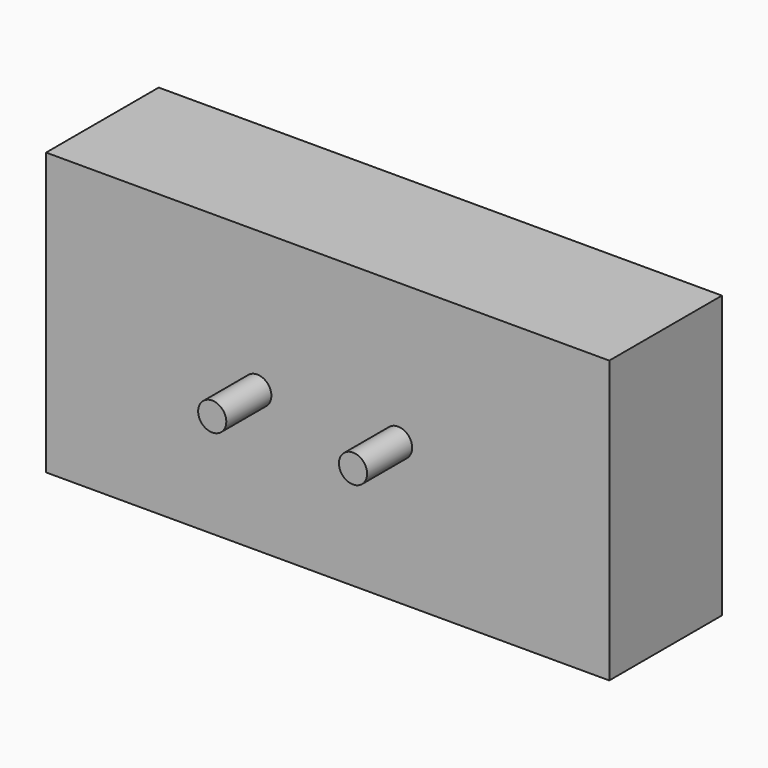
from build123d import *

# Parameters (mm, degrees)
F0_W     = 2540
F0_H     = 1270
F1_DEPTH = 317.5
F2_R     = 63.5
F3_DEPTH = 254


with BuildPart() as f1:
    # F0 (on Front) → F1 (new body, symmetric)
    with BuildSketch(Plane.XZ):
        Rectangle(F0_W, F0_H)
    extrude(amount=F1_DEPTH, both=True)

    # F2 (on face) → F3 (join)
    with BuildSketch(Plane.XZ.offset(317.5)):
        with Locations((-317.5, 0)):
            Circle(F2_R)
        with Locations((317.5, 0)):
            Circle(F2_R)
    extrude(amount=F3_DEPTH)


solid = f1.part
